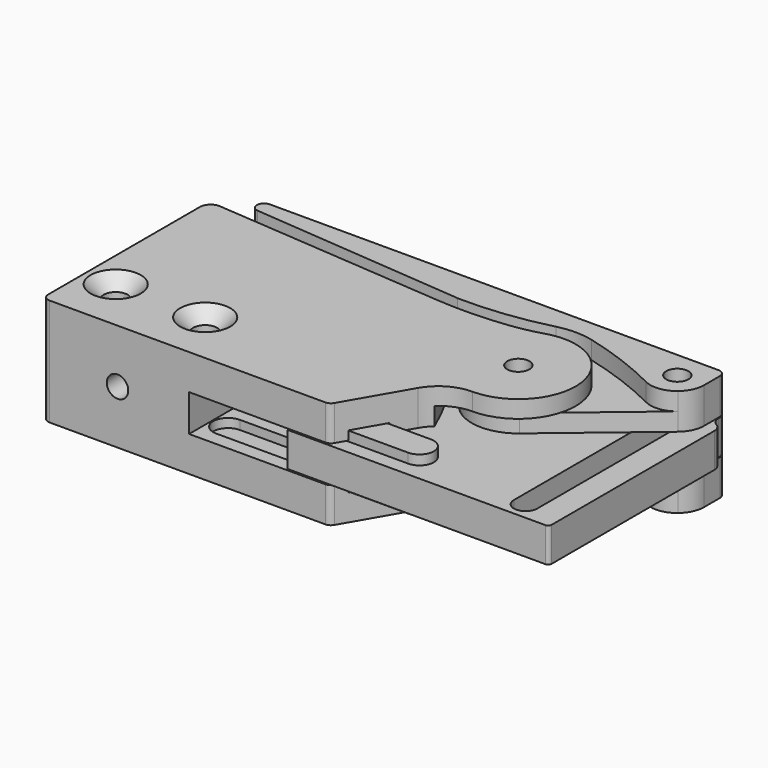
from build123d import *

# Parameters (mm, degrees)
SKETCH001_R         = 3.1
PAD_DEPTH           = 15
POCKET_DEPTH        = 5
SKETCH004_R         = 3.1
HOLE_DEPTH          = 9
POCKET002_DEPTH     = 5
PAD001_DEPTH        = 4.8
PAD004_DEPTH        = 7.5
SKETCH005_R         = 3.1
PAD002_DEPTH        = 15
SKETCH006_W         = 110
SKETCH006_H         = 10.3
POCKET001_DEPTH     = 58.009889
POCKET003_DEPTH     = 10.15
HOLE001_D           = 6
HOLE001_CSINK_D     = 17
HOLE001_CSINK_ANGLE = 90
POCKET004_DEPTH     = 7.65
HOLE002_D           = 6
HOLE002_CSINK_D     = 14
HOLE002_CSINK_ANGLE = 90
SKETCH013_R         = 3.35
HOLE003_DEPTH       = 15
HOLE003_TIPS_R      = 3.35


with BuildPart() as lever:
    # Sketch001 → Pad (new body, symmetric)
    with BuildSketch(Plane.XY):
        with BuildLine():
            ThreePointArc((34.836648, 52.253894), (36.813716, 54.829818), (37.516662, 58))
            Line((37.516662, 63.5), (37.516662, 58))
            ThreePointArc((37.516662, 63.5), (36.930876, 64.914214), (35.516662, 65.5))
            Line((35.516662, 65.5), (-89.85723, 65.5))
            ThreePointArc((-89.85723, 65.5), (-91.855485, 63.583522), (-90.024129, 61.506976))
            Line((-30.233409, 56.5), (-90.024129, 61.506976))
            ThreePointArc((-11.907908, 34.784473), (-19.495604, 46.971408), (-30.233409, 56.5))
            ThreePointArc((-11.907908, 34.784473), (-2.963736, 27.342343), (8.354643, 30.040083))
            Line((34.836648, 52.253894), (8.354643, 30.040083))
        make_face()
        with Locations((30.016662, 58)):
            Circle(SKETCH001_R, mode=Mode.SUBTRACT)
    extrude(amount=PAD_DEPTH, both=True)

    # Sketch003 → Pocket (cut, symmetric)
    with BuildSketch(Plane.XY):
        with BuildLine():
            Line((-32.483338, 20.5), (35.516662, 20.5))
            ThreePointArc((35.516662, 20.5), (36.930876, 21.085786), (37.516662, 22.5))
            Line((37.516662, 22.5), (37.516662, 65.5))
            Line((37.516662, 65.5), (-17.483338, 65.5))
            ThreePointArc((-18.983338, 64), (-17.922678, 64.43934), (-17.483338, 65.5))
            Line((-18.983338, 64), (-20.483338, 64))
            ThreePointArc((-20.483338, 64), (-28.968619, 60.485281), (-32.483338, 52))
            Line((-32.483338, 20.5), (-32.483338, 52))
        make_face()
    extrude(amount=POCKET_DEPTH, both=True, mode=Mode.SUBTRACT)

    # Sketch004 → Hole (cut)
    with BuildSketch(Plane.XY.offset(15)):
        with Locations((0, 40)):
            Circle(SKETCH004_R)
    hole = extrude(amount=-HOLE_DEPTH, mode=Mode.SUBTRACT)

    # Sketch007 → Pocket002 (cut)
    with BuildSketch(Plane.XY.offset(15)):
        with BuildLine():
            ThreePointArc((26.666769, 51.289693), (33.961647, 51.621356), (37.516662, 58))
            Line((37.516662, 58), (37.516662, 20.5))
            Line((37.516662, 20.5), (-32.483338, 20.5))
            Line((-32.483338, 20.5), (-32.483338, 56.5))
            ThreePointArc((-32.483338, 56.5), (-18.610575, 56.933345), (-4.948079, 59.378248))
            ThreePointArc((4.948079, 59.378248), (0, 60), (-4.948079, 59.378248))
            ThreePointArc((26.666769, 51.289693), (16.023006, 55.912833), (4.948079, 59.378248))
        make_face()
    pocket002 = extrude(amount=-POCKET002_DEPTH, mode=Mode.SUBTRACT)

    # Mirrored: Hole, Pocket002 across XY
    add(hole.mirror(Plane.XY), mode=Mode.SUBTRACT)
    add(pocket002.mirror(Plane.XY), mode=Mode.SUBTRACT)


with BuildPart() as carriage:
    # Sketch002 → Pad001 (new body, symmetric)
    with BuildSketch(Plane.XY):
        with BuildLine():
            Line((-32.483338, 38.145001), (-32.483338, 0))
            Line((-32.483338, 0), (39.516662, 0))
            ThreePointArc((39.516662, 0), (40.223769, 0.292893), (40.516662, 1))
            Line((40.516662, 1), (40.516662, 57.803848))
            ThreePointArc((40.516662, 57.803848), (40.114738, 59.303848), (39.016662, 60.401924))
            ThreePointArc((37.516662, 63), (37.918586, 61.5), (39.016662, 60.401924))
            Line((37.516662, 63), (37.516662, 63.5))
            ThreePointArc((37.516662, 63.5), (36.930876, 64.914214), (35.516662, 65.5))
            Line((35.516662, 65.5), (-16.983338, 65.5))
            ThreePointArc((-18.583338, 63.9), (-17.451967, 64.368629), (-16.983338, 65.5))
            ThreePointArc((-18.583338, 63.9), (-20.142441, 63.463045), (-21.247372, 62.279465))
            Line((-31.36345, 42.743218), (-21.247372, 62.279465))
            ThreePointArc((-31.36345, 42.743218), (-32.199333, 40.511314), (-32.483338, 38.145001))
        make_face()
        with BuildLine():
            ThreePointArc((33.266662, 58), (30.016662, 61.25), (26.766662, 58))
            Line((26.766662, 58), (26.766662, 5))
            ThreePointArc((26.766662, 5), (30.016662, 1.75), (33.266662, 5))
            Line((33.266662, 58), (33.266662, 5))
        make_face(mode=Mode.SUBTRACT)
    extrude(amount=PAD001_DEPTH, both=True)

    # Sketch011 → Pad004 (join, symmetric)
    with BuildSketch(Plane.XY):
        with BuildLine():
            ThreePointArc((-30, 12), (-34, 8), (-30, 4))
            Line((-30, 4), (-2, 4))
            ThreePointArc((-2, 4), (2, 8), (-2, 12))
            Line((-30, 12), (-2, 12))
        make_face()
    extrude(amount=PAD004_DEPTH, both=True)


with BuildPart() as holder:
    # Sketch005 → Pad002 (new body, symmetric)
    with BuildSketch(Plane.XY):
        with BuildLine():
            Line((-101, 2), (-101, 55.008889))
            ThreePointArc((-97.769231, 58), (-100.038099, 57.210287), (-101, 55.008889))
            Line((-97.769231, 58), (-32.961824, 53))
            ThreePointArc((-32.961824, 53), (-22.969534, 52.740376), (-13.002778, 53.5))
            ThreePointArc((-13.002778, 53.5), (-8.815221, 54.218517), (-4.704508, 55.29273))
            ThreePointArc((0, 24), (15.822195, 42.378688), (-4.704508, 55.29273))
            ThreePointArc((0, 24), (-6, 22.392305), (-10.392305, 18))
            Line((-10.392305, 18), (-20.207259, 1))
            ThreePointArc((-21.93931, 0), (-20.93931, 0.267949), (-20.207259, 1))
            Line((-21.93931, 0), (-99, 0))
            ThreePointArc((-101, 2), (-100.414214, 0.585786), (-99, 0))
        make_face()
        with Locations((0, 40)):
            Circle(SKETCH005_R, mode=Mode.SUBTRACT)
    extrude(amount=PAD002_DEPTH, both=True)

    # Sketch006 → Pocket001 (cut, through all)
    with BuildSketch(Plane.XZ):
        with Locations((-5, 0)):
            Rectangle(SKETCH006_W, SKETCH006_H)
    extrude(amount=-POCKET001_DEPTH, mode=Mode.SUBTRACT)

    # Sketch008 → Pocket003 (cut, symmetric)
    with BuildSketch(Plane.XY):
        with BuildLine():
            ThreePointArc((13.917694, 50.438271), (5.323578, 56.562585), (-5.229392, 56.592564))
            ThreePointArc((-26.266918, 53.355891), (-15.624391, 54.169792), (-5.229392, 56.592564))
            Line((-26.266918, 53.355891), (-31.266918, 53.355891))
            ThreePointArc((-28.72676, 51.703792), (-29.906372, 52.668938), (-31.266918, 53.355891))
            ThreePointArc((-7.266918, 18.837023), (-16.36838, 36.333684), (-28.72676, 51.703792))
            Line((24.452138, 18.837023), (-7.266918, 18.837023))
            Line((24.452138, 48.837023), (24.452138, 18.837023))
            ThreePointArc((13.917694, 50.438271), (18.857476, 47.483454), (24.452138, 48.837023))
        make_face()
    extrude(amount=POCKET003_DEPTH, both=True, mode=Mode.SUBTRACT)

    # Hole001 (through all)
    with Locations(Plane(origin=(0, 58, 0), x_dir=(1, 0, 0), z_dir=(0, 1, 0))):
        with Locations((-80, 0)):
            CounterSinkHole(HOLE001_D / 2, HOLE001_CSINK_D / 2, counter_sink_angle=HOLE001_CSINK_ANGLE)

    # Sketch012 → Pocket004 (cut, symmetric)
    with BuildSketch(Plane.XY):
        with BuildLine():
            ThreePointArc((-55.5, 12.15), (-59.65, 8), (-55.5, 3.85))
            Line((-55.5, 3.85), (0, 3.85))
            ThreePointArc((0, 3.85), (4.15, 8), (0, 12.15))
            Line((-55.5, 12.15), (0, 12.15))
        make_face()
    extrude(amount=POCKET004_DEPTH, both=True, mode=Mode.SUBTRACT)

    # Hole002 (through all)
    with Locations(Plane.XY.offset(15)):
        with Locations((-92.5, 15), (-67.5, 15)):
            CounterSinkHole(HOLE002_D / 2, HOLE002_CSINK_D / 2, counter_sink_angle=HOLE002_CSINK_ANGLE)

    # Sketch013 → Hole003 (cut)
    with BuildSketch(Plane.XY.offset(15)):
        with Locations((-92.5, 15)):
            Circle(SKETCH013_R)
        with Locations((-67.5, 15)):
            Circle(SKETCH013_R)
    extrude(amount=-HOLE003_DEPTH, mode=Mode.SUBTRACT)

    # Hole003 tips → Hole003 tip 1 section 0
    with BuildSketch(Plane.XY, mode=Mode.PRIVATE) as hole003_tip_1_s0:
        with Locations((-92.5, 15)):
            Circle(HOLE003_TIPS_R)
    loft([hole003_tip_1_s0.sketch, Vertex(-92.5, 15, -2.012883)], mode=Mode.SUBTRACT)

    # Hole003 tips → Hole003 tip 2 section 0
    with BuildSketch(Plane.XY, mode=Mode.PRIVATE) as hole003_tip_2_s0:
        with Locations((-67.5, 15)):
            Circle(HOLE003_TIPS_R)
    loft([hole003_tip_2_s0.sketch, Vertex(-67.5, 15, -2.012883)], mode=Mode.SUBTRACT)


solid = Compound([lever.part, carriage.part, holder.part])
